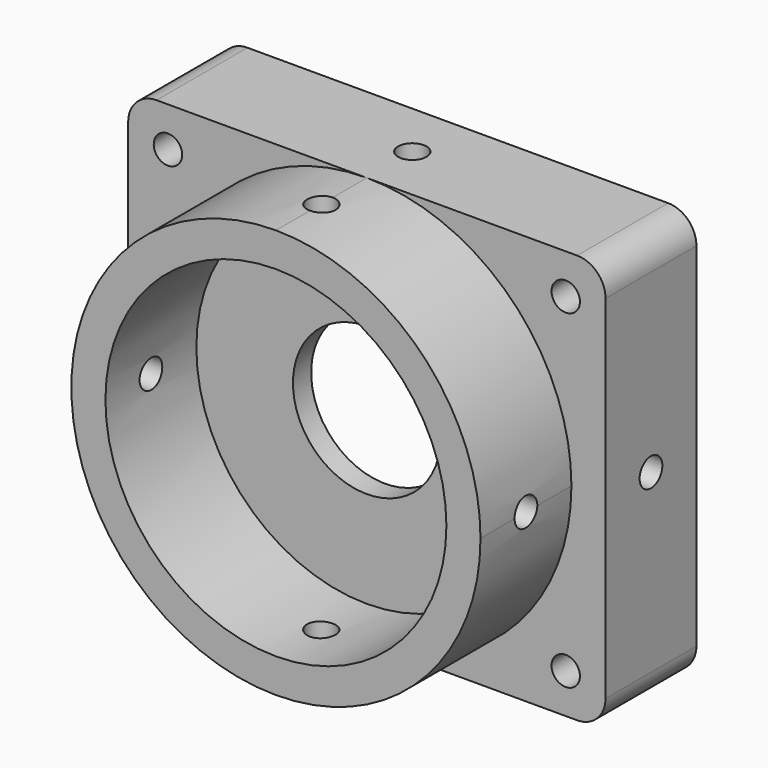
from build123d import *

# Parameters (mm, degrees)
F1_DEPTH  = 10
F2_W      = 37
F2_H      = 36
F3_DEPTH  = 10
F4_R      = 1.25
F5_DEPTH  = 25
F6_W      = 27
F6_H      = 25
F7_DEPTH  = 8
F8_R      = 1.25
F9_DEPTH  = 36.001
F10_R     = 1.25
F11_DEPTH = 42.001
F13_R     = 15
F14_DEPTH = 10
F15_DEPTH = 10
F16_R     = 6.5
F17_DEPTH = 10.001


with BuildPart() as f1:
    # F0 (on Front) → F1 (new body)
    with BuildSketch(Plane.XZ):
        with BuildLine():
            Line((-18.5, -18), (18.5, -18))
            ThreePointArc((18.5, -18), (20.267767, -17.267767), (21, -15.5))
            Line((21, -15.5), (21, 15.5))
            ThreePointArc((21, 15.5), (20.267767, 17.267767), (18.5, 18))
            Line((18.5, 18), (-18.5, 18))
            ThreePointArc((-18.5, 18), (-20.267767, 17.267767), (-21, 15.5))
            Line((-21, 15.5), (-21, -15.5))
            ThreePointArc((-21, -15.5), (-20.267767, -17.267767), (-18.5, -18))
        make_face()
    extrude(amount=-F1_DEPTH)

    # F2 (on face) → F3 (join)
    with BuildSketch(Plane.XZ):
        Rectangle(F2_W, F2_H)
    extrude(amount=F3_DEPTH)

    # F4 (on face) → F5 (cut)
    with BuildSketch(Plane(origin=(0, 10, 0), x_dir=(-1, 0, 0), z_dir=(0, 1, 0))):
        with Locations((-17.5, 14.5)):
            Circle(F4_R)
        with Locations((17.5, 14.5)):
            Circle(F4_R)
        with Locations((-17.5, -14.5)):
            Circle(F4_R)
        with Locations((17.5, -14.5)):
            Circle(F4_R)
    extrude(amount=-F5_DEPTH, mode=Mode.SUBTRACT)

    # F6 (on face) → F7 (cut)
    with BuildSketch(Plane(origin=(0, 10, 0), x_dir=(-1, 0, 0), z_dir=(0, 1, 0))):
        Rectangle(F6_W, F6_H)
    extrude(amount=-F7_DEPTH, mode=Mode.SUBTRACT)

    # F8 (on face) → F9 (cut, through all)
    with BuildSketch(Plane.XY.offset(18)):
        with Locations((0, 5)):
            Circle(F8_R)
        with Locations((0, -5)):
            Circle(F8_R)
    extrude(amount=-F9_DEPTH, mode=Mode.SUBTRACT)

    # F10 (on face) → F11 (cut, through all)
    with BuildSketch(Plane.YZ.offset(21)):
        with Locations((5, 0)):
            Circle(F10_R)
        with Locations((-5, 0)):
            Circle(F10_R)
    extrude(amount=-F11_DEPTH, mode=Mode.SUBTRACT)

    # F13 (on face) → F14 (cut)
    with BuildSketch(Plane.XZ.offset(10)):
        Circle(F13_R)
    extrude(amount=-F14_DEPTH, mode=Mode.SUBTRACT)

    # F12 (on face) → F15 (cut)
    with BuildSketch(Plane.XZ.offset(10)):
        with BuildLine():
            ThreePointArc((0, -18), (-18, 0), (0, 18))
            Line((0, 18), (-18.5, 18))
            Line((-18.5, 18), (-18.5, 15.25))
            ThreePointArc((-18.5, 15.25), (-16.25, 14.5), (-18.5, 13.75))
            Line((-18.5, 13.75), (-18.5, -13.75))
            ThreePointArc((-18.5, -13.75), (-16.25, -14.5), (-18.5, -15.25))
            Line((-18.5, -15.25), (-18.5, -18))
            Line((-18.5, -18), (0, -18))
        make_face()
        with BuildLine():
            ThreePointArc((0, 18), (12.727922, 12.727922), (18, 0))
            ThreePointArc((18, 0), (12.727922, -12.727922), (0, -18))
            Line((0, -18), (18.5, -18))
            Line((18.5, -18), (18.5, -15.25))
            ThreePointArc((18.5, -15.25), (17.104715, -15.685854), (16.25, -14.5))
            ThreePointArc((16.25, -14.5), (17.104715, -13.314146), (18.5, -13.75))
            Line((18.5, -13.75), (18.5, 13.75))
            ThreePointArc((18.5, 13.75), (17.104715, 13.314146), (16.25, 14.5))
            ThreePointArc((16.25, 14.5), (17.104715, 15.685854), (18.5, 15.25))
            Line((18.5, 15.25), (18.5, 18))
            Line((18.5, 18), (0, 18))
        make_face()
    extrude(amount=-F15_DEPTH, mode=Mode.SUBTRACT)

    # F16 (on face) → F17 (cut, through all)
    with BuildSketch(Plane.XZ):
        Circle(F16_R)
    extrude(amount=-F17_DEPTH, mode=Mode.SUBTRACT)


solid = f1.part
